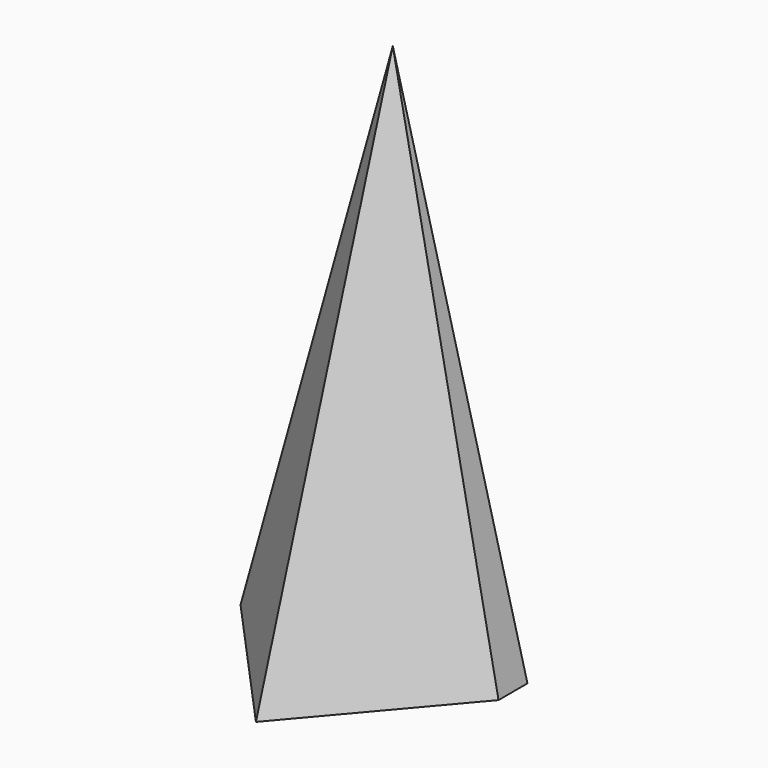
from build123d import *


with BuildPart() as f3:
    # F0 (on Top) → F3 section 0
    with BuildSketch(Plane.XY, mode=Mode.PRIVATE) as f3_s0:
        Polygon((-32.177303, 8.740868), (-32.177303, 0), (0, -35.571251), (30.187905, 0), (30.187905, 8.740868), (20.614294, 16.399754), (-22.056634, 16.399754), align=None)
    loft([f3_s0.sketch, Vertex(0, 5.783991, 127)])


solid = f3.part
